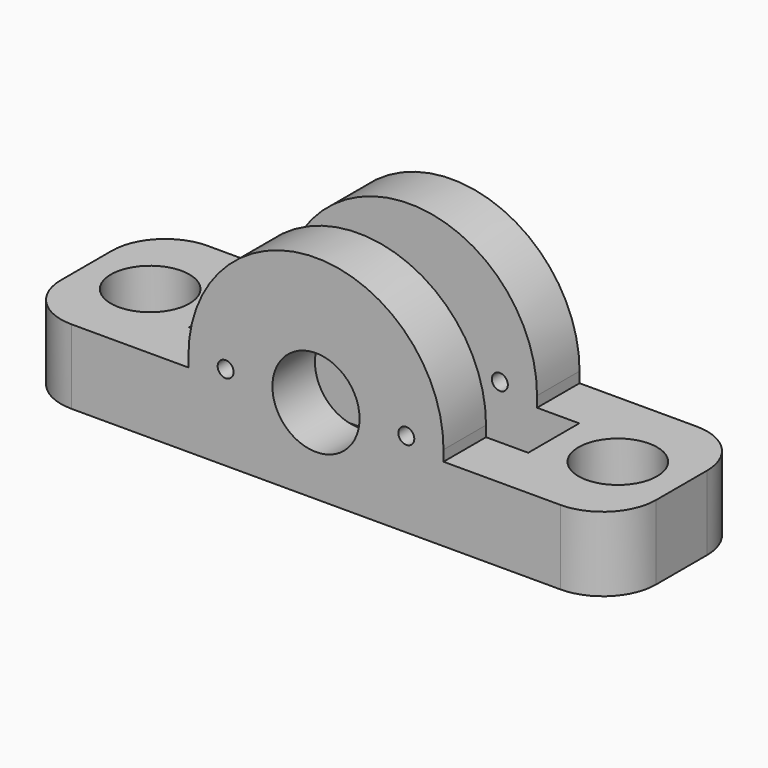
from build123d import *

# Parameters (mm, degrees)
F0_R     = 3.7
F1_DEPTH = 25
F2_W     = 81.575442
F2_H     = 50.133398
F3_DEPTH = 18
F4_R     = 4.1
F4_R_2   = 0.75
F5_DEPTH = 16.001
F6_R     = 16
F7_DEPTH = 6


with BuildPart() as f1:
    # F0 (on Top) → F1 (new body)
    with BuildSketch(Plane.XY):
        with BuildLine():
            Line((-28, 3), (-28, 0))
            Line((-28, 0), (-28, -3))
            ThreePointArc((-28, -3), (-26.535534, -6.535534), (-23, -8))
            Line((-23, -8), (0, -8))
            Line((0, -8), (23, -8))
            ThreePointArc((23, -8), (26.535534, -6.535534), (28, -3))
            Line((28, -3), (28, 0))
            Line((28, 0), (28, 3))
            ThreePointArc((28, 3), (26.535534, 6.535534), (23, 8))
            Line((23, 8), (0, 8))
            Line((0, 8), (-23, 8))
            ThreePointArc((-23, 8), (-26.535534, 6.535534), (-28, 3))
        make_face()
        with Locations((-22, 0)):
            Circle(F0_R, mode=Mode.SUBTRACT)
        with Locations((22, 0)):
            Circle(F0_R, mode=Mode.SUBTRACT)
    extrude(amount=F1_DEPTH)

    # F2 (on face) → F3 (cut)
    with BuildSketch(Plane.XY.offset(25)):
        with Locations((1.883624, -0.796919)):
            Rectangle(F2_W, F2_H)
        Polygon((0, -3), (12, -3), (12, -8), (0, -8), (-12, -8), (-12, -3), align=None, mode=Mode.SUBTRACT)
        Polygon((12, 3), (0, 3), (-12, 3), (-12, 8), (0, 8), (12, 8), align=None, mode=Mode.SUBTRACT)
    extrude(amount=-F3_DEPTH, mode=Mode.SUBTRACT)

    # F4 (on face) → F5 (cut, through all)
    with BuildSketch(Plane.XZ.offset(8)):
        with Locations((0, 8)):
            Circle(F4_R)
        with Locations((-8.5, 8)):
            Circle(F4_R_2)
        with Locations((8.5, 8)):
            Circle(F4_R_2)
        with BuildLine():
            Line((-15.281343, 8), (-12, 8))
            ThreePointArc((-12, 8), (0, 20), (12, 8))
            Line((12, 8), (15.281343, 8))
            Line((15.281343, 8), (15.281343, 26.349186))
            Line((15.281343, 26.349186), (0, 26.349186))
            Line((0, 26.349186), (-15.281343, 26.349186))
            Line((-15.281343, 26.349186), (-15.281343, 8))
        make_face()
    extrude(amount=-F5_DEPTH, mode=Mode.SUBTRACT)

    # F6 (on face) → F7 (cut)
    with BuildSketch(Plane(origin=(0, -3, 0), x_dir=(-1, 0, 0), z_dir=(0, 1, 0))):
        with Locations((0, 8)):
            Circle(F6_R)
    extrude(amount=F7_DEPTH, mode=Mode.SUBTRACT)


solid = f1.part
